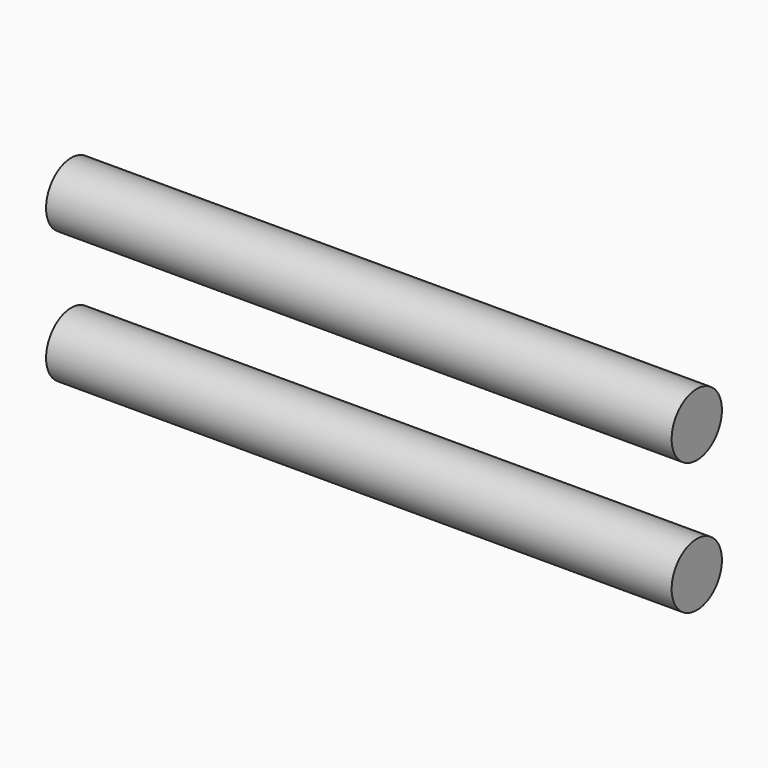
from build123d import *

# Parameters (mm, degrees)
CYLINDER004_R     = 5
CYLINDER004_DEPTH = 99.5
CYLINDER003_R     = 5
CYLINDER003_DEPTH = 99.5


with BuildPart() as cylinder004:
    # Cylinder004 → Cylinder004 (new body)
    with BuildSketch(Plane(origin=(0, 0, 142.5), x_dir=(0, 0, -1), z_dir=(1, 0, 0))):
        Circle(CYLINDER004_R)
    extrude(amount=CYLINDER004_DEPTH)


with BuildPart() as nitrogenpipes10mm001:
    # Cylinder003 → Cylinder003 (new body)
    with BuildSketch(Plane(origin=(0, 0, 121.5), x_dir=(0, 0, -1), z_dir=(1, 0, 0))):
        Circle(CYLINDER003_R)
    extrude(amount=CYLINDER003_DEPTH)

    # Fusion001: union Cylinder004
    add(cylinder004.part)


solid = nitrogenpipes10mm001.part
